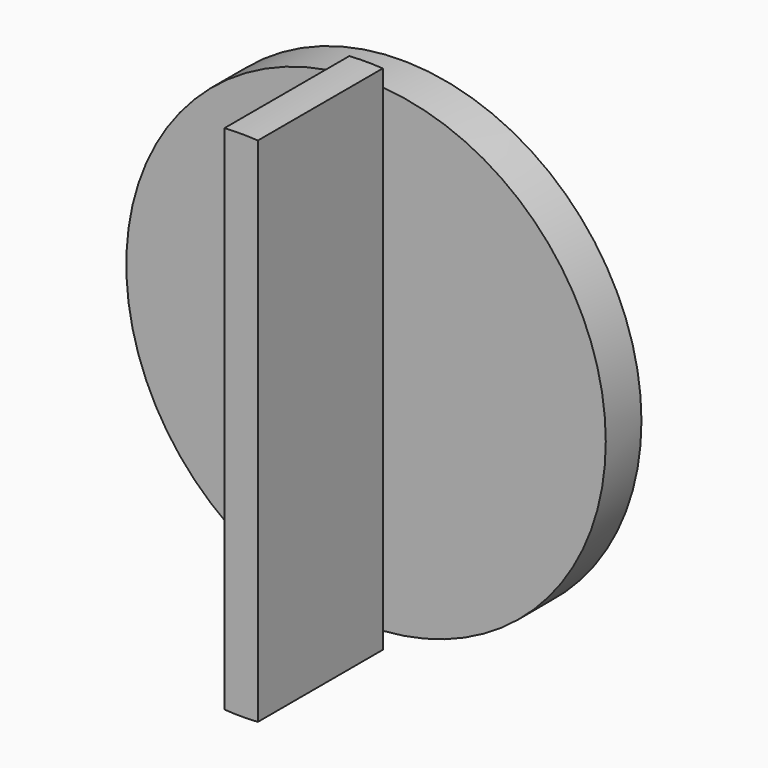
from build123d import *

# Parameters (mm, degrees)
F0_W     = 9.525
F0_H     = 145.739072
F2_DEPTH = 44.45
F1_R     = 68.2625
F3_DEPTH = 12.7


with BuildPart() as f2:
    # F0 (on Front) → F2 (new body)
    with BuildSketch(Plane.XZ):
        with BuildLine():
            Line((-4.7625, 72.869536), (4.7625, 72.869536))
            ThreePointArc((4.7625, 72.869536), (0, 73.025), (-4.7625, 72.869536))
        make_face()
        with BuildLine():
            ThreePointArc((-4.7625, -72.869536), (0, -73.025), (4.7625, -72.869536))
            Line((4.7625, -72.869536), (-4.7625, -72.869536))
        make_face()
        Rectangle(F0_W, F0_H)
    extrude(amount=F2_DEPTH)

    # F1 (on Front) → F3 (join)
    with BuildSketch(Plane.XZ):
        Circle(F1_R)
    extrude(amount=-F3_DEPTH)


solid = f2.part
